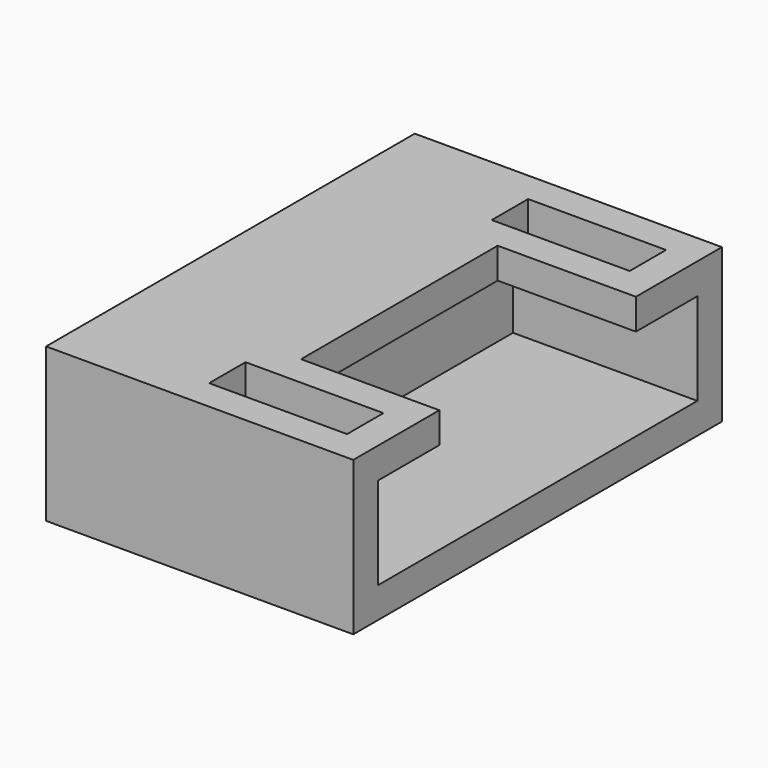
from build123d import *

# Parameters (mm, degrees)
SKETCH041_W     = 15
SKETCH041_H     = 5
PAD013_DEPTH    = 10
SKETCH015_W     = 13
SKETCH015_H     = 3
POCKET007_DEPTH = 6
SKETCH016_W     = 8
SKETCH016_H     = 1
POCKET008_DEPTH = 4.5
SKETCH033_W     = 1.48
SKETCH033_H     = 4.49
POCKET009_DEPTH = 2


with BuildPart() as part:
    # Sketch041 → Pad013 (new body)
    with BuildSketch(Plane.YZ):
        with Locations((0, 2.5)):
            Rectangle(SKETCH041_W, SKETCH041_H)
    extrude(amount=PAD013_DEPTH)

    # Sketch015 (on Face6 of Pad013) → Pocket007 (cut)
    with BuildSketch(Plane.YZ.offset(10)):
        with Locations((0, 2.5)):
            Rectangle(SKETCH015_W, SKETCH015_H)
    extrude(amount=-POCKET007_DEPTH, mode=Mode.SUBTRACT)

    # Sketch016 (on Face5 of Pocket007) → Pocket008 (cut)
    with BuildSketch(Plane.YZ.offset(10)):
        with Locations((0, 4.5)):
            Rectangle(SKETCH016_W, SKETCH016_H)
    extrude(amount=-POCKET008_DEPTH, mode=Mode.SUBTRACT)

    # Sketch033 (on Face6 of Pocket008) → Pocket009 (cut)
    with BuildSketch(Plane(origin=(0, 0, 5), x_dir=(0, -1, 0), z_dir=(0, 0, 1))):
        with Locations((-5.75, 6.745)):
            Rectangle(SKETCH033_W, SKETCH033_H)
        with Locations((5.75, 6.745)):
            Rectangle(SKETCH033_W, SKETCH033_H)
    extrude(amount=-POCKET009_DEPTH, mode=Mode.SUBTRACT)


solid = part.part
